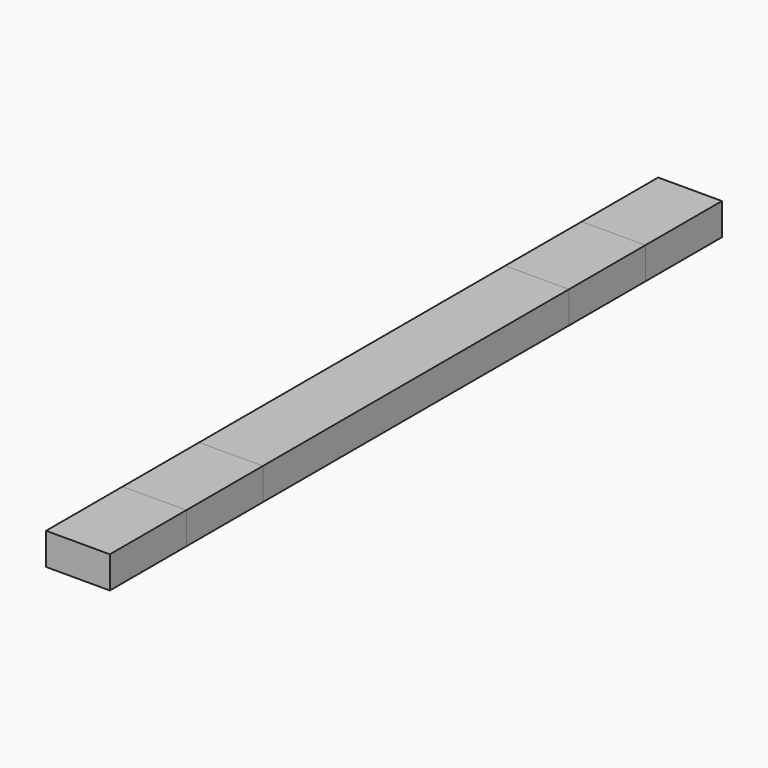
from build123d import *

# Parameters (mm, degrees)
F0_W     = 40
F0_H     = 20
F1_DEPTH = 240
F2_W     = 40
F2_H     = 20
F3_DEPTH = 180
F4_W     = 40
F4_H     = 20
F5_DEPTH = 120


with BuildPart() as f1:
    # F0 (on Front) → F1 (new body, symmetric)
    with BuildSketch(Plane.XZ):
        Rectangle(F0_W, F0_H)
    extrude(amount=F1_DEPTH, both=True)


with BuildPart() as f3:
    # F2 (on Front) → F3 (new body, symmetric)
    with BuildSketch(Plane.XZ):
        Rectangle(F2_W, F2_H)
    extrude(amount=F3_DEPTH, both=True)


with BuildPart() as f5:
    # F4 (on Front) → F5 (new body, symmetric)
    with BuildSketch(Plane.XZ):
        Rectangle(F4_W, F4_H)
    extrude(amount=F5_DEPTH, both=True)


solid = Compound([f1.part, f3.part, f5.part])
